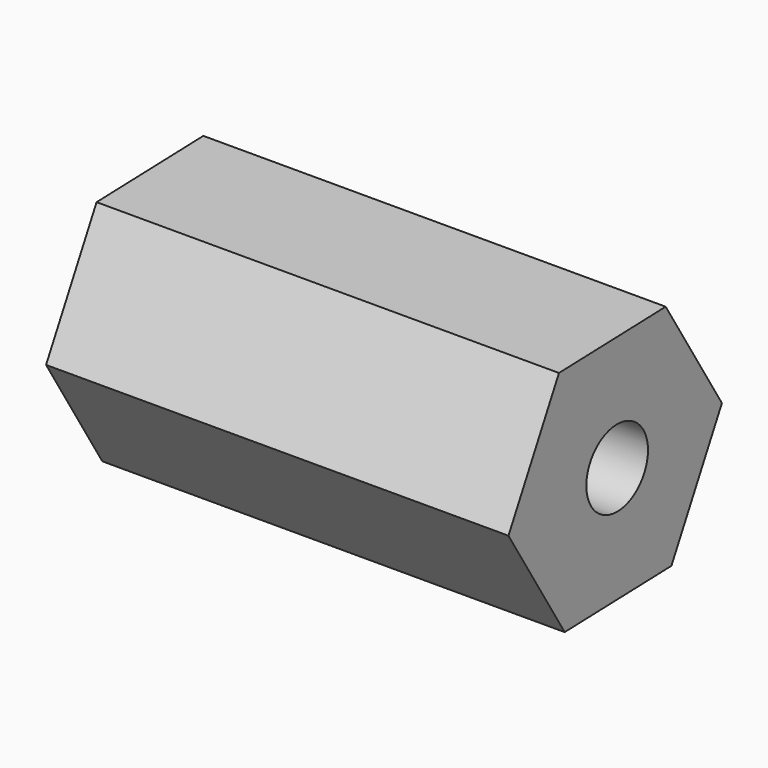
from build123d import *

# Parameters (mm, degrees)
F1_DEPTH = 152.4
F2_R     = 12.7
F3_DEPTH = 25.4


with BuildPart() as f1:
    # F0 (on Right) → F1 (new body)
    with BuildSketch(Plane.YZ):
        Polygon((20.151588, -123.029663), (40.958893, -84.267103), (17.793185, -46.866168), (-26.179829, -48.227793), (-46.987135, -86.990352), (-23.821426, -124.391287), align=None)
    extrude(amount=F1_DEPTH)

    # F2 (on face) → F3 (cut)
    with BuildSketch(Plane.YZ.offset(152.4)):
        with Locations((-2.204021, -85.532457)):
            Circle(F2_R)
    extrude(amount=-F3_DEPTH, mode=Mode.SUBTRACT)


solid = f1.part
